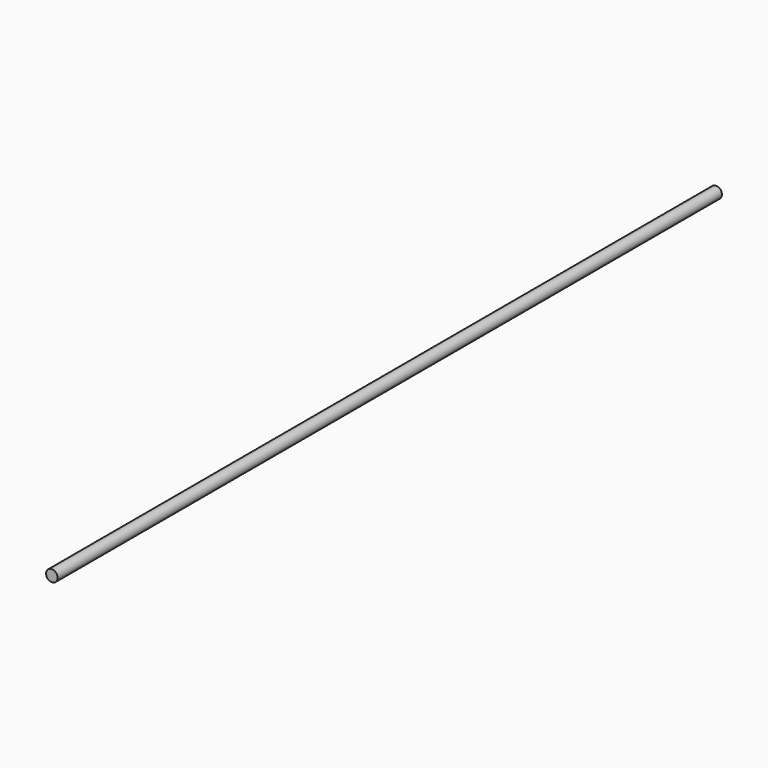
from build123d import *

# Parameters (mm, degrees)
F5_R     = 8.965
F6_DEPTH = 835.86
F7_DEPTH = 1285.86


with BuildPart() as f6:
    # F5 (on Front) → F6 (new body)
    with BuildSketch(Plane.XZ):
        Circle(F5_R)
    extrude(amount=F6_DEPTH)


with BuildPart() as f7:
    # F5 (on Front) → F7 (new body)
    with BuildSketch(Plane.XZ):
        Circle(F5_R)
    extrude(amount=F7_DEPTH)


solid = Compound([f6.part, f7.part])
